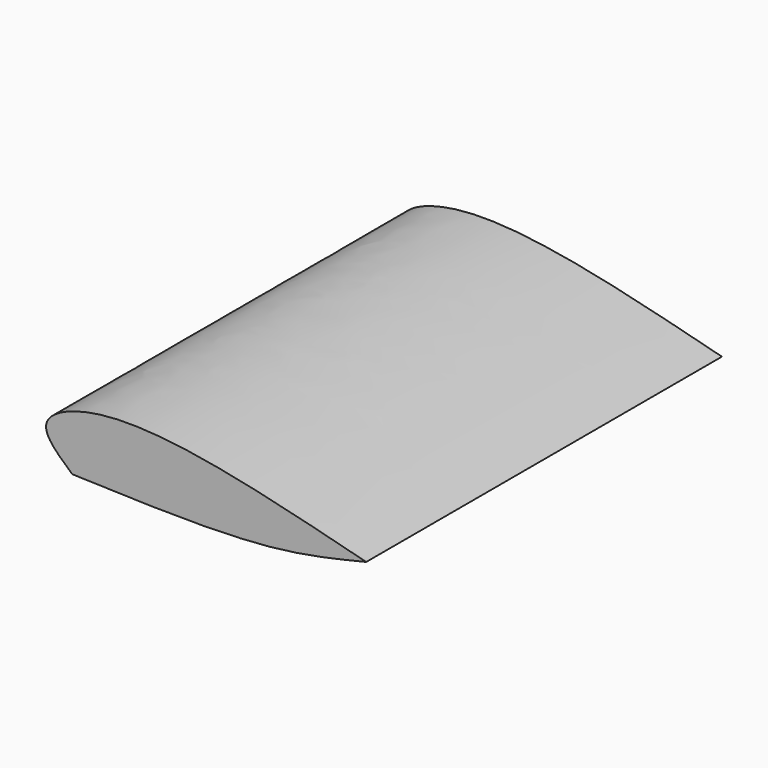
from build123d import *

# Parameters (mm, degrees)
F1_DEPTH = 127


with BuildPart() as f1:
    # F0 (on Front) → F1 (new body)
    with BuildSketch(Plane.XZ):
        with BuildLine():
            add(Edge.make_bspline(
                [(-21.3725138456, -5.2486374043), (-25.3250389122, -1.7619208594), (-34.1329747651, 6.0079920815), (-6.6537881059, 17.8439569647), (34.8982726047, 7.1361643232), (62.5904724002, 0)],
                knots=[0, 0, 0, 0, 0.2135447796, 0.4758701561, 1, 1, 1, 1], degree=3))
            add(Edge.make_bspline(
                [(-21.3725138456, -5.2486374043), (-1.4088403313, -5.9470410293), (33.0440307526, -7.1523307291), (53.8433098407, -2.1174326274), (62.5904724002, 0)],
                knots=[0, 0, 0, 0, 0.5794487625, 1, 1, 1, 1], degree=3))
        make_face()
    extrude(amount=F1_DEPTH)


solid = f1.part
